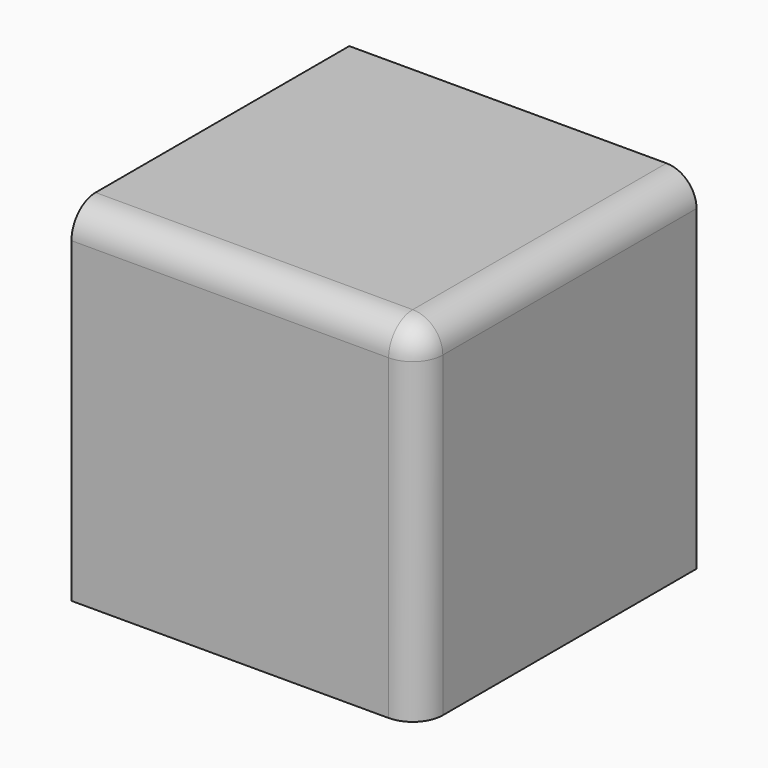
from build123d import *

# Parameters (mm, degrees)
SKETCH058_W  = 41.021
SKETCH058_H  = 41.021
PAD047_DEPTH = 41.021
SKETCH057_W  = 25.908
SKETCH057_H  = 25.908
PAD048_DEPTH = 6.35
FILLET002_R  = 3.556
FILLET003_R  = 3.556


with BuildPart() as part:
    # Sketch058 → Pad047 (new body)
    with BuildSketch(Plane.XZ):
        with Locations((20.5105, 20.5105)):
            Rectangle(SKETCH058_W, SKETCH058_H)
    extrude(amount=PAD047_DEPTH)

    # Sketch057 (on Face3 of Pad047) → Pad048 (join)
    with BuildSketch(Plane(origin=(0, 0, 0), x_dir=(1, 0, 0), z_dir=(0, 0, -1))):
        with Locations((20.507403, 20.507403)):
            Rectangle(SKETCH057_W, SKETCH057_H)
    extrude(amount=PAD048_DEPTH)

    # Fillet002
    fillet002_edges = [part.edges().sort_by_distance(p)[0] for p in [
        (7.553403, -20.507403, -6.35),
        (20.507403, -33.461403, -6.35),
        (20.507403, -7.553403, -6.35),
        (33.461403, -20.507403, -6.35),
    ]]
    fillet(fillet002_edges, radius=FILLET002_R)

    # Fillet003
    fillet003_edges = [part.edges().sort_by_distance(p)[0] for p in [
        (20.5105, -41.021, 41.021),
        (41.021, -41.021, 20.5105),
        (41.021, -20.5105, 41.021),
    ]]
    fillet(fillet003_edges, radius=FILLET003_R)


with BuildPart() as part_1:
    # Body040 placement: moved
    add(part.part.moved(Location((-650.669022, -1260.805597, 2459.1772))))


solid = part_1.part
